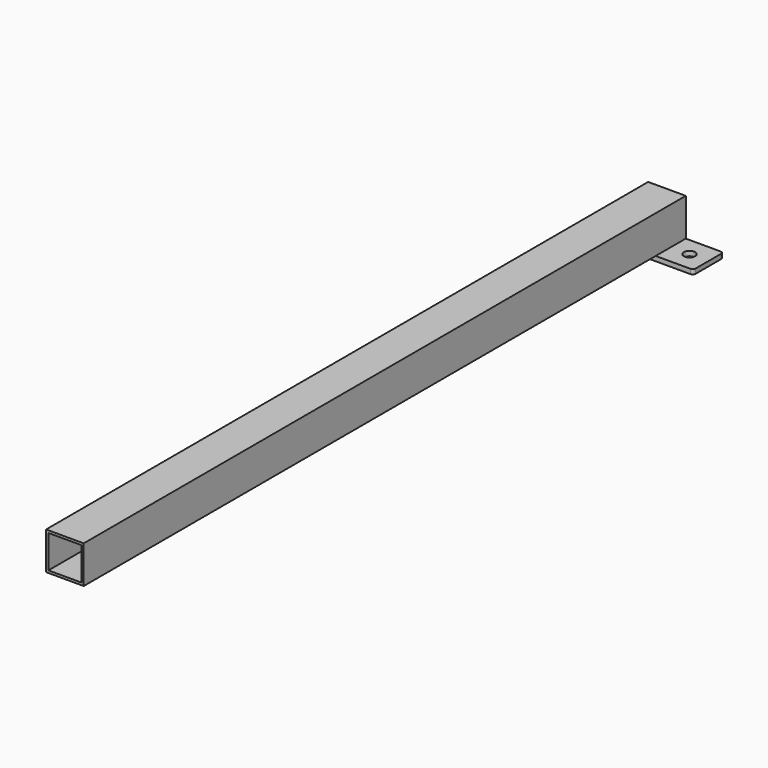
from build123d import *

# Parameters (mm, degrees)
F0_W     = 40
F0_H     = 40
F0_W_2   = 35
F0_H_2   = 35
F1_DEPTH = 800
F2_R     = 6
F3_DEPTH = 5


with BuildPart() as f1:
    # F0 (on Front) → F1 (new body)
    with BuildSketch(Plane.XZ):
        Rectangle(F0_W, F0_H)
        Rectangle(F0_W_2, F0_H_2, mode=Mode.SUBTRACT)
    extrude(amount=F1_DEPTH)

    # F2 (on face) → F3 (join)
    with BuildSketch(Plane(origin=(0, 0, -20), x_dir=(1, 0, 0), z_dir=(0, 0, -1))):
        with BuildLine():
            ThreePointArc((-60, 3), (-59.12132, 0.87868), (-57, 0))
            Line((-57, 0), (57, 0))
            ThreePointArc((57, 0), (59.12132, 0.87868), (60, 3))
            Line((60, 3), (60, 37))
            ThreePointArc((60, 37), (59.12132, 39.12132), (57, 40))
            Line((57, 40), (-57, 40))
            ThreePointArc((-57, 40), (-59.12132, 39.12132), (-60, 37))
            Line((-60, 37), (-60, 3))
        make_face()
        with Locations((-40, 20)):
            Circle(F2_R, mode=Mode.SUBTRACT)
        with Locations((40, 20)):
            Circle(F2_R, mode=Mode.SUBTRACT)
    extrude(amount=F3_DEPTH)


solid = f1.part
